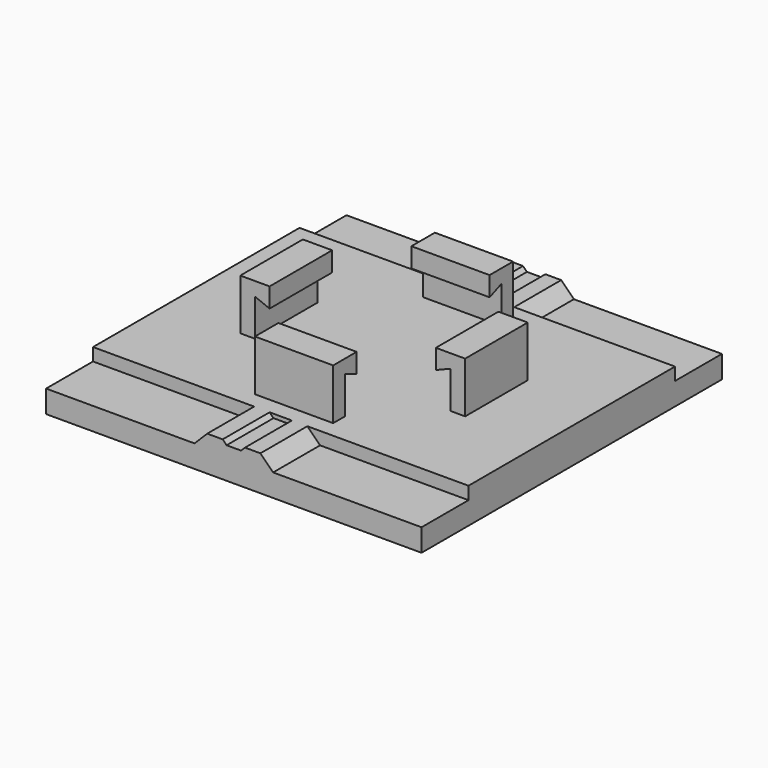
from build123d import *

# Parameters (mm, degrees)
F0_W          = 19.2
F0_H          = 19.2
F1_DEPTH      = 1.8
F3_DEPTH      = 3
F5_DEPTH      = 3
F7_DEPTH      = 2
F7_DEPTH_BACK = 2
F9_DEPTH      = 2
F9_DEPTH_BACK = 2


with BuildPart() as f1:
    # F0 (on Top) → F1 (new body)
    with BuildSketch(Plane.XY):
        Rectangle(F0_W, F0_H)
    extrude(amount=F1_DEPTH)

    # F2 (on face) → F3 (cut)
    with BuildSketch(Plane.XZ.offset(9.6)):
        Polygon((-2.01, 1.15), (-1.36, 1.8), (-9.6, 1.8), (-9.6, 1.15), align=None)
        Polygon((0.57, 1.8), (-0.57, 1.8), (-0.37, 1.6), (0.37, 1.6), align=None)
        Polygon((9.6, 1.8), (1.36, 1.8), (2.01, 1.15), (9.6, 1.15), align=None)
    extrude(amount=-F3_DEPTH, mode=Mode.SUBTRACT)

    # F4 (on face) → F5 (cut)
    with BuildSketch(Plane(origin=(0, 9.6, 0), x_dir=(-1, 0, 0), z_dir=(0, 1, 0))):
        Polygon((-9.6, 1.8), (-9.6, 1.15), (-2.03, 1.15), (-1.38, 1.8), align=None)
        Polygon((0.57, 1.8), (-0.57, 1.8), (-0.37, 1.6), (0.37, 1.6), align=None)
        Polygon((2.03, 1.15), (9.6, 1.15), (9.6, 1.8), (1.38, 1.8), align=None)
    extrude(amount=-F5_DEPTH, mode=Mode.SUBTRACT)

    # F6 (on Front) → F7 (join, two sides)
    with BuildSketch(Plane.XZ) as f7_sk:
        Polygon((-5.75, 4.4), (-5.75, 0), (-5, 0), (-5, 3.7), (-4.25, 3.4), (-4.25, 4.4), align=None)
        Polygon((4.25, 3.4), (5, 3.7), (5, 0), (5.75, 0), (5.75, 4.4), (4.25, 4.4), align=None)
    extrude(amount=F7_DEPTH)
    extrude(f7_sk.sketch, amount=-F7_DEPTH_BACK)

    # F8 (on Right) → F9 (join, two sides)
    with BuildSketch(Plane.YZ) as f9_sk:
        Polygon((-5.75, 4.4), (-5.75, 0), (-5, 0), (-5, 3.7), (-4.25, 3.4), (-4.25, 4.4), align=None)
        Polygon((4.25, 4.4), (4.25, 3.4), (5, 3.7), (5, 0), (5.75, 0), (5.75, 4.4), align=None)
    extrude(amount=F9_DEPTH)
    extrude(f9_sk.sketch, amount=-F9_DEPTH_BACK)


solid = f1.part
